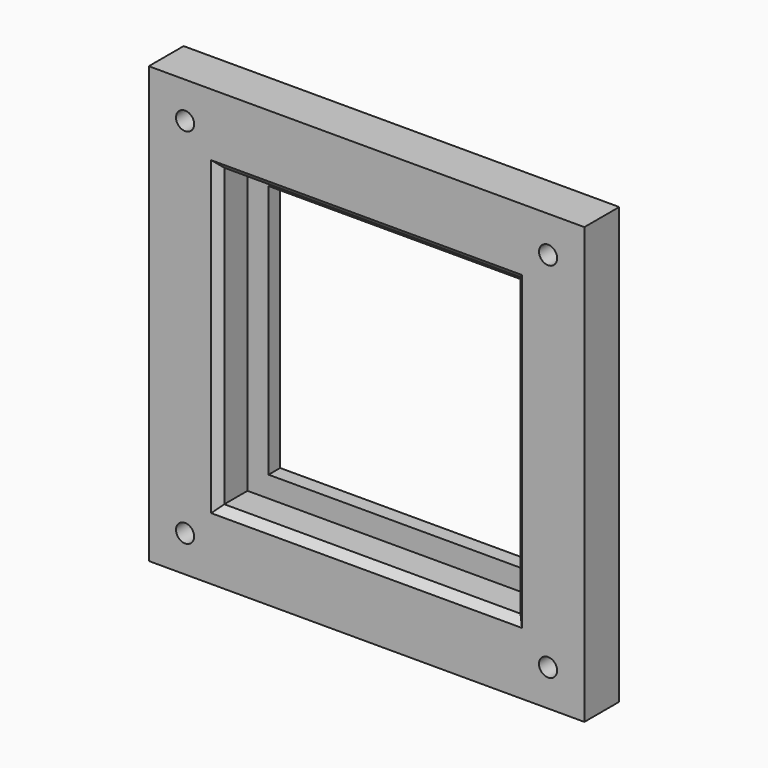
from build123d import *

# Parameters (mm, degrees)
F0_W     = 60
F0_H     = 60
F0_R     = 1.25
F0_W_2   = 40.8
F0_H_2   = 40.8
F1_DEPTH = 7
F0_W_3   = 35
F0_H_3   = 35
F2_DEPTH = 2
F3_SIZE  = 1
F4_SIZE  = 1


with BuildPart() as f1:
    # F0 (on Front) → F1 (new body)
    with BuildSketch(Plane.XZ):
        Rectangle(F0_W, F0_H)
        with Locations((-25, -25)):
            Circle(F0_R, mode=Mode.SUBTRACT)
        with Locations((25, -25)):
            Circle(F0_R, mode=Mode.SUBTRACT)
        with Locations((-25, 25)):
            Circle(F0_R, mode=Mode.SUBTRACT)
        Rectangle(F0_W_2, F0_H_2, mode=Mode.SUBTRACT)
        with Locations((25, 25)):
            Circle(F0_R, mode=Mode.SUBTRACT)
    extrude(amount=F1_DEPTH)

    # F0 (on Front) → F2 (join)
    with BuildSketch(Plane.XZ):
        Rectangle(F0_W_2, F0_H_2)
        Rectangle(F0_W_3, F0_H_3, mode=Mode.SUBTRACT)
    extrude(amount=F2_DEPTH)

    # F3
    f3_edges = [f1.edges().sort_by_distance(p)[0] for p in [
        (20.4, -7, 0),
        (0, -7, 20.4),
        (-20.4, -7, 0),
        (0, -7, -20.4),
    ]]
    chamfer(f3_edges, length=F3_SIZE)

    # F4
    f4_edges = [f1.edges().sort_by_distance(p)[0] for p in [
        (-30, 0, 0),
        (0, 0, -30),
        (30, 0, 0),
        (0, 0, 30),
    ]]
    chamfer(f4_edges, length=F4_SIZE)


solid = f1.part
